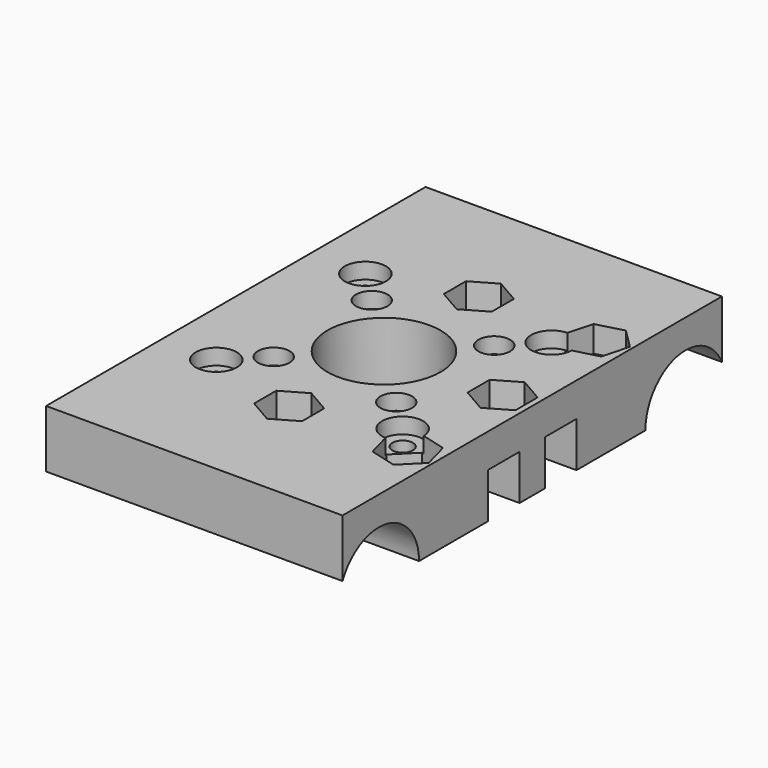
from build123d import *

# Parameters (mm, degrees)
SKETCH_W        = 75
SKETCH_H        = 120
PAD_DEPTH       = 20
POCKET_DEPTH    = 6.604
SKETCH002_R     = 3.5
POCKET001_DEPTH = 13.397
SKETCH003_R     = 5.2
SKETCH003_R_2   = 4
POCKET002_DEPTH = 4
SKETCH004_R     = 2.6
SKETCH004_R_2   = 1.75
POCKET003_DEPTH = 16.001
SKETCH005_R     = 14.3
POCKET004_DEPTH = 20.001
SKETCH006_W     = 10
SKETCH006_H     = 11.43
POCKET005_DEPTH = 37.5
SKETCH007_R     = 3.5
POCKET006_DEPTH = 5
POCKET007_DEPTH = 6.1
SKETCH009_R     = 12.7
POCKET008_DEPTH = 75.001


with BuildPart() as part:
    # Sketch → Pad (new body)
    with BuildSketch(Plane.XY):
        Rectangle(SKETCH_W, SKETCH_H)
    extrude(amount=PAD_DEPTH)

    # Sketch001 (on Face6 of Pad) → Pocket (cut)
    with BuildSketch(Plane.XY.offset(20)):
        Polygon((6.062178, 33.5), (0, 37), (-6.062178, 33.5), (-6.062178, 26.5), (0, 23), (6.062178, 26.5), align=None)
        Polygon((30, 7), (23.937822, 3.5), (23.937822, -3.5), (30, -7), (36.062178, -3.5), (36.062178, 3.5), align=None)
        Polygon((6.062178, -26.5), (0, -23), (-6.062178, -26.5), (-6.062178, -33.5), (0, -37), (6.062178, -33.5), align=None)
        Polygon((34.949747, 25.050253), (36.761481, 31.811733), (31.811733, 36.761481), (25.050253, 34.949747), (23.238519, 28.188267), (28.188267, 23.238519), align=None)
        Polygon((34.949747, -25.050253), (28.188267, -23.238519), (23.238519, -28.188267), (25.050253, -34.949747), (31.811733, -36.761481), (36.761481, -31.811733), align=None)
    extrude(amount=-POCKET_DEPTH, mode=Mode.SUBTRACT)

    # Sketch002 (on Face37 of Pocket) → Pocket001 (cut, through all)
    with BuildSketch(Plane.XY.offset(13.396)):
        with Locations((0, 30)):
            Circle(SKETCH002_R)
        with Locations((30, 30)):
            Circle(SKETCH002_R)
        with Locations((30, -30)):
            Circle(SKETCH002_R)
        with Locations((0, -30)):
            Circle(SKETCH002_R)
        with Locations((30, 0)):
            Circle(SKETCH002_R)
    extrude(amount=-POCKET001_DEPTH, mode=Mode.SUBTRACT)

    # Sketch003 (on Face5 of Pocket001) → Pocket002 (cut)
    with BuildSketch(Plane.XY.offset(20)):
        with Locations((-23.57, 23.57)):
            Circle(SKETCH003_R)
        with Locations((23.57, 23.57)):
            Circle(SKETCH003_R)
        with Locations((23.57, -23.57)):
            Circle(SKETCH003_R)
        with Locations((-23.57, -23.57)):
            Circle(SKETCH003_R)
        with Locations((-15.5, 15.5)):
            Circle(SKETCH003_R_2)
        with Locations((15.5, 15.5)):
            Circle(SKETCH003_R_2)
        with Locations((15.5, -15.5)):
            Circle(SKETCH003_R_2)
        with Locations((-15.5, -15.5)):
            Circle(SKETCH003_R_2)
    extrude(amount=-POCKET002_DEPTH, mode=Mode.SUBTRACT)

    # Sketch004 (on Face57 of Pocket002) → Pocket003 (cut, through all)
    with BuildSketch(Plane.XY.offset(16)):
        with Locations((-23.57, 23.57)):
            Circle(SKETCH004_R)
        with Locations((23.57, 23.57)):
            Circle(SKETCH004_R)
        with Locations((23.57, -23.57)):
            Circle(SKETCH004_R)
        with Locations((-23.57, -23.57)):
            Circle(SKETCH004_R)
        with Locations((-15.5, 15.5)):
            Circle(SKETCH004_R_2)
        with Locations((15.5, 15.5)):
            Circle(SKETCH004_R_2)
        with Locations((-15.5, -15.5)):
            Circle(SKETCH004_R_2)
        with Locations((15.5, -15.5)):
            Circle(SKETCH004_R_2)
    extrude(amount=-POCKET003_DEPTH, mode=Mode.SUBTRACT)

    # Sketch005 (on Face5 of Pocket003) → Pocket004 (cut, through all)
    with BuildSketch(Plane.XY.offset(20)):
        Circle(SKETCH005_R)
    extrude(amount=-POCKET004_DEPTH, mode=Mode.SUBTRACT)

    # Sketch006 (on Face3 of Pocket004) → Pocket005 (cut)
    with BuildSketch(Plane.YZ.offset(37.5)):
        with Locations((-9, 5.715)):
            Rectangle(SKETCH006_W, SKETCH006_H)
        with Locations((9, 5.715)):
            Rectangle(SKETCH006_W, SKETCH006_H)
    extrude(amount=-POCKET005_DEPTH, mode=Mode.SUBTRACT)

    # Sketch007 (on Face2 of Pocket005) → Pocket006 (cut)
    with BuildSketch(Plane(origin=(-37.5, 0, 0), x_dir=(0, -1, 0), z_dir=(-1, 0, 0))):
        with Locations((-30, 0)):
            Circle(SKETCH007_R)
        Circle(SKETCH007_R)
        with Locations((30, 0)):
            Circle(SKETCH007_R)
    extrude(amount=-POCKET006_DEPTH, mode=Mode.SUBTRACT)

    # Sketch008 (on Face22 of Pocket006) → Pocket007 (cut)
    with BuildSketch(Plane(origin=(-32.5, 0, 0), x_dir=(0, -1, 0), z_dir=(-1, 0, 0))):
        Polygon((-36.062178, -3.5), (-30, -7), (-23.937822, -3.5), (-23.937822, 3.5), (-30, 7), (-36.062178, 3.5), align=None)
        Polygon((-6.062178, -3.5), (0, -7), (6.062178, -3.5), (6.062178, 3.5), (0, 7), (-6.062178, 3.5), align=None)
        Polygon((36.062178, 3.5), (30, 7), (23.937822, 3.5), (23.937822, -3.5), (30, -7), (36.062178, -3.5), align=None)
    extrude(amount=-POCKET007_DEPTH, mode=Mode.SUBTRACT)

    # Sketch009 (on Face3 of Pocket007) → Pocket008 (cut, through all)
    with BuildSketch(Plane.YZ.offset(37.5)):
        with Locations((-48.5, 0)):
            Circle(SKETCH009_R)
        with Locations((48.5, 0)):
            Circle(SKETCH009_R)
    extrude(amount=-POCKET008_DEPTH, mode=Mode.SUBTRACT)


solid = part.part
